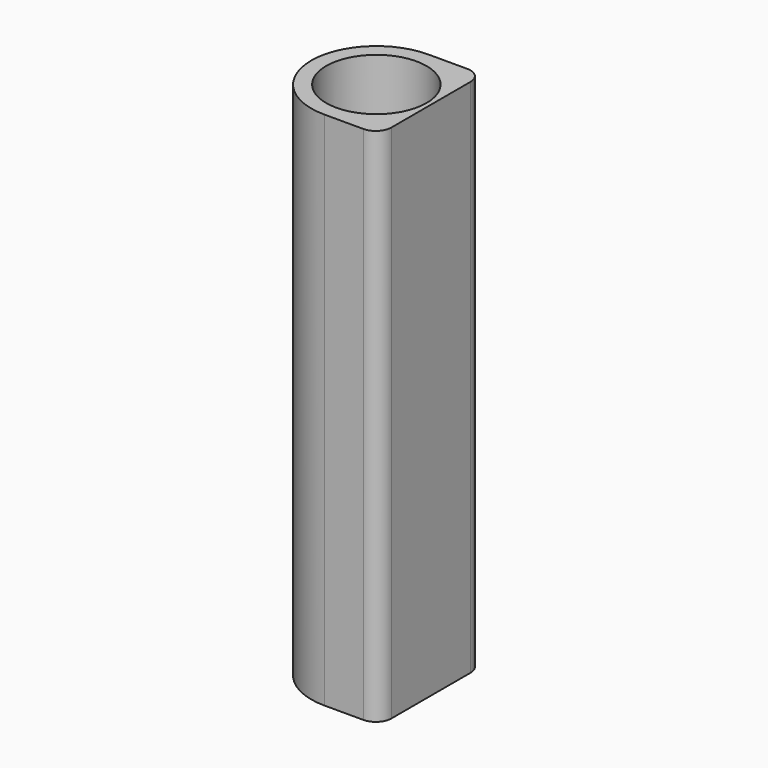
from build123d import *

# Parameters (mm, degrees)
SKETCH_R     = 9.65
PAD_DEPTH    = 100
FILLET_R     = 3
POCKET_DEPTH = 3


with BuildPart() as part:
    # Sketch → Pad (new body)
    with BuildSketch(Plane.XY):
        with BuildLine():
            ThreePointArc((0, 12.5), (-12.5, 0), (0, -12.5))
            Line((0, -12.5), (10.5, -12.5))
            Line((10.5, 12.5), (10.5, -12.5))
            Line((0, 12.5), (10.5, 12.5))
        make_face()
        Circle(SKETCH_R, mode=Mode.SUBTRACT)
    extrude(amount=PAD_DEPTH)

    # Fillet
    fillet_edges = [part.edges().sort_by_distance(p)[0] for p in [
        (10.5, -12.5, 50),
        (10.5, 12.5, 50),
    ]]
    fillet(fillet_edges, radius=FILLET_R)

    # Sketch001 (on DatumPlane) → Pocket (cut)
    with BuildSketch(Plane(origin=(-12.5, 0, 100), x_dir=(0, 0, -1), z_dir=(-1, 0, 0))):
        Polygon((12.979274, -3.5), (17.020726, -3.5), (19.041452, 0), (17.020726, 3.5), (12.979274, 3.5), (10.958548, 0), align=None)
        Polygon((87.020726, -3.5), (89.041452, 0), (87.020726, 3.5), (82.979274, 3.5), (80.958548, 0), (82.979274, -3.5), align=None)
    extrude(amount=-POCKET_DEPTH, mode=Mode.SUBTRACT)


solid = part.part
